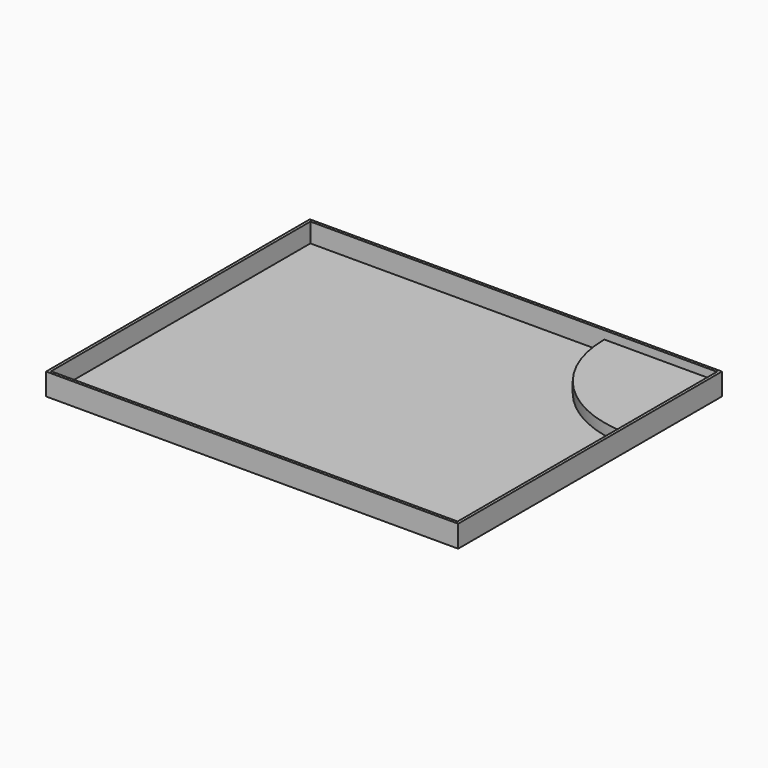
from build123d import *

# Parameters (mm, degrees)
F0_W     = 3759.2
F0_H     = 2997.2
F1_DEPTH = 25.4
F2_W     = 3810
F2_H     = 3048
F2_W_2   = 3759.2
F2_H_2   = 2997.2
F3_DEPTH = 203.2
F5_DEPTH = 101.6


with BuildPart() as f1:
    # F0 (on Top) → F1 (new body)
    with BuildSketch(Plane.XY):
        with Locations((5.5601783097, 229.6265830756)):
            Rectangle(F0_W, F0_H)
    extrude(amount=F1_DEPTH)


with BuildPart() as f3:
    # F2 (on face) → F3 (new body)
    with BuildSketch(Plane(origin=(0, 0, 0), x_dir=(1, 0, 0), z_dir=(0, 0, -1))):
        with Locations((5.5601783097, -229.6265830756)):
            Rectangle(F2_W, F2_H)
        with Locations((5.5601783097, -229.6265830756)):
            Rectangle(F2_W_2, F2_H_2, mode=Mode.SUBTRACT)
    extrude(amount=-F3_DEPTH)


with BuildPart() as f5:
    # F4 (on face) → F5 (new body)
    with BuildSketch(Plane.XY.offset(25.4)):
        with BuildLine():
            Line((1885.1601783097, 1728.2265830756), (843.7601783097, 1728.2265830756))
            ThreePointArc((843.7601783097, 1728.2265830756), (1148.779176382, 991.8455811479), (1885.1601783097, 686.8265830756))
            Line((1885.1601783097, 686.8265830756), (1885.1601783097, 1728.2265830756))
        make_face()
    extrude(amount=F5_DEPTH)


solid = Compound([f1.part, f3.part, f5.part])
